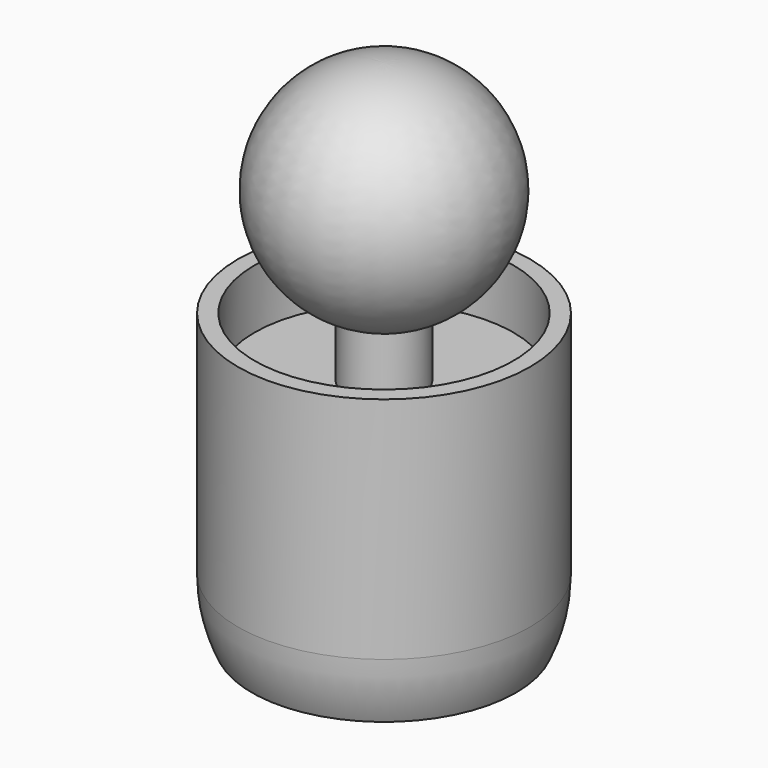
from build123d import *


with BuildPart() as f1:
    # F0 (on Front) → F1 (revolve)
    with BuildSketch(Plane.XZ):
        with BuildLine():
            ThreePointArc((-1.686797, 10.329553), (-0.855528, 10.116086), (0, 10.047924))
            Line((0, 10.047924), (0, 20.047717))
            ThreePointArc((0, 20.047717), (-4.958465, 15.902893), (-1.686797, 10.329553))
        make_face()
        with BuildLine():
            Line((-6.51327, 10.213861), (-6.51327, 0))
            Line((-6.51327, 0), (-5.523285, 0))
            ThreePointArc((-5.523285, 0), (-3.905552, 3.905552), (0, 5.523285))
            Line((0, 5.523285), (0, 10.047924))
            ThreePointArc((0, 10.047924), (-0.855528, 10.116086), (-1.686797, 10.329553))
            Line((-1.686797, 10.329553), (-1.686797, 7.575124))
            Line((-1.686797, 7.575124), (-5.773318, 7.575124))
            Line((-5.773318, 7.575124), (-5.773318, 10.213861))
            Line((-5.773318, 10.213861), (-6.51327, 10.213861))
        make_face()
        with BuildLine():
            Line((-5.523285, 0), (-6.51327, 0))
            ThreePointArc((-6.51327, 0), (-6.355981, -1.422737), (-5.891713, -2.776759))
            Line((-5.891713, -2.776759), (-4.774545, -2.776759))
            ThreePointArc((-4.774545, -2.776759), (-5.332816, -1.437968), (-5.523285, 0))
        make_face()
    revolve(axis=Axis((0, 0, 7.841761), (0, 0, -1)))


solid = f1.part
